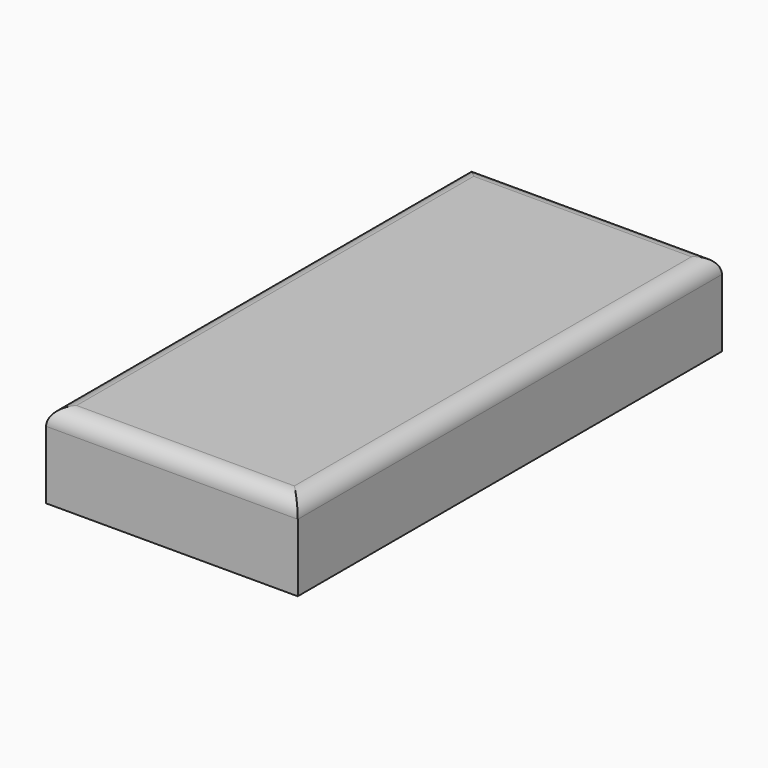
from build123d import *

# Parameters (mm, degrees)
F0_W      = 76.2
F0_H      = 76.2
F1_DEPTH  = 76.2
F2_R      = 5.08
F4_W      = 76.2
F4_H      = 76.2
F5_DEPTH  = 76.2
F6_W      = 50.8
F6_H      = 50.8
F7_DEPTH  = 50.8
F9_W      = 75.4324346781
F9_H      = 158.9155644178
F10_DEPTH = 25.4
F11_R     = 5.08


with BuildPart() as f1:
    # F0 (on Top) → F1 (new body)
    with BuildSketch(Plane.XY):
        with Locations((-38.1, 38.1)):
            Rectangle(F0_W, F0_H)
    extrude(amount=F1_DEPTH)

    # F2
    f2_edges = [f1.edges().sort_by_distance(p)[0] for p in [
        (-38.1, 0, 76.2),
        (0, 0, 38.1),
        (0, 76.2, 38.1),
        (0, 38.1, 0),
        (0, 38.1, 76.2),
        (-38.1, 76.2, 76.2),
        (-76.2, 38.1, 76.2),
        (-76.2, 0, 38.1),
    ]]
    fillet(f2_edges, radius=F2_R)


with BuildPart() as f5:
    # F4 (on Top) → F5 (new body)
    with BuildSketch(Plane.XY):
        with Locations((-38.1, 38.1)):
            Rectangle(F4_W, F4_H)
    extrude(amount=F5_DEPTH)

    # F6 (on face) → F7 (join)
    with BuildSketch(Plane.YZ):
        with Locations((46.7064439595, 25.4)):
            Rectangle(F6_W, F6_H)
    extrude(amount=F7_DEPTH)


with BuildPart() as f10:
    # F9 (on Top) → F10 (new body)
    with BuildSketch(Plane.XY):
        with Locations((37.716217339, 79.4577822089)):
            Rectangle(F9_W, F9_H)
    extrude(amount=F10_DEPTH)

    # F11
    f11_edges = [f10.edges().sort_by_distance(p)[0] for p in [
        (37.716217, 0, 25.4),
        (75.432435, 79.457782, 25.4),
        (37.716217, 158.915564, 25.4),
        (0, 79.457782, 25.4),
    ]]
    fillet(f11_edges, radius=F11_R)


solid = f10.part
